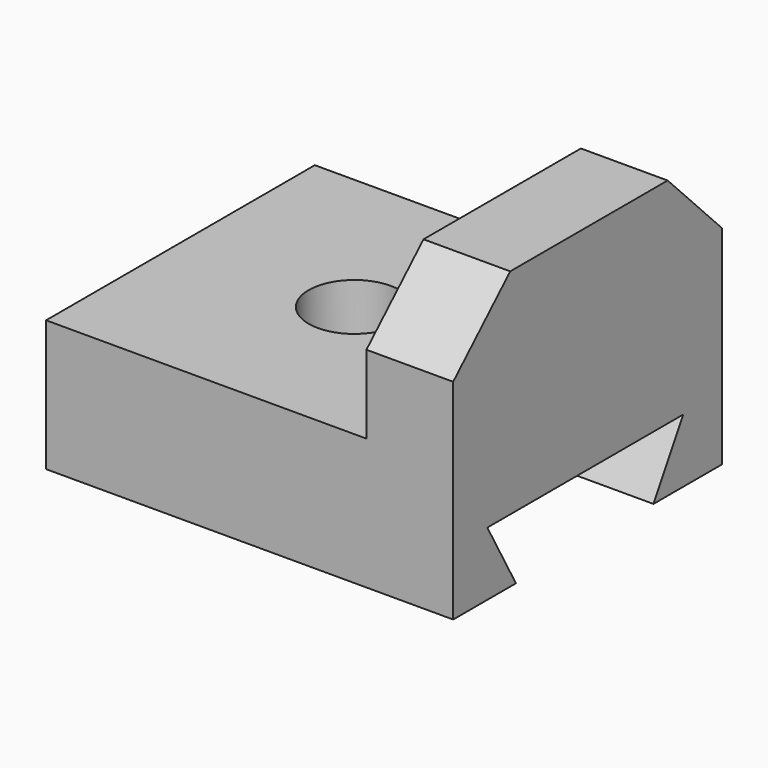
from build123d import *

# Parameters (mm, degrees)
F1_DEPTH      = 25.4
F1_DEPTH_BACK = 25.4
F3_DEPTH      = 25.4
F5_DEPTH      = 108.204
F6_R          = 6.9052604412
F7_DEPTH      = 25.4


with BuildPart() as f1:
    # F0 (on Front) → F1 (new body, two sides)
    with BuildSketch(Plane.XZ) as f1_sk:
        Polygon((16.0311479121, 15.3024597093), (-32.4148759246, 15.3024597093), (-32.4148759246, -4.5178690925), (29.1475392878, -4.5178690925), (29.1475392878, 37.4545902014), (16.0311479121, 37.4545902014), align=None)
    extrude(amount=F1_DEPTH)
    extrude(f1_sk.sketch, amount=-F1_DEPTH_BACK)

    # F2 (on face) → F3 (cut)
    with BuildSketch(Plane(origin=(16.0311479121, 0, 0), x_dir=(0, -1, 0), z_dir=(-1, 0, 0))):
        Polygon((-25.4, 26.9527581858), (-15.1368464701, 37.4545902014), (-25.4, 37.4545902014), align=None)
        Polygon((25.4, 37.4545902014), (14.6135179795, 37.4545902014), (25.4, 27.1370837055), align=None)
    extrude(amount=-F3_DEPTH, mode=Mode.SUBTRACT)

    # F4 (on face) → F5 (cut)
    with BuildSketch(Plane(origin=(-32.4148759246, 0, 0), x_dir=(0, -1, 0), z_dir=(-1, 0, 0))):
        Polygon((13.535389653, -4.5178690925), (18.945902586, 5.1008197479), (-18.0714763701, 5.1008197479), (-12.4605736661, -4.5178690925), align=None)
    extrude(amount=-F5_DEPTH, mode=Mode.SUBTRACT)

    # F6 (on face) → F7 (cut)
    with BuildSketch(Plane.XY.offset(15.3024597093)):
        with Locations((-6.1209849082, 0)):
            Circle(F6_R)
    extrude(amount=-F7_DEPTH, mode=Mode.SUBTRACT)


solid = f1.part
